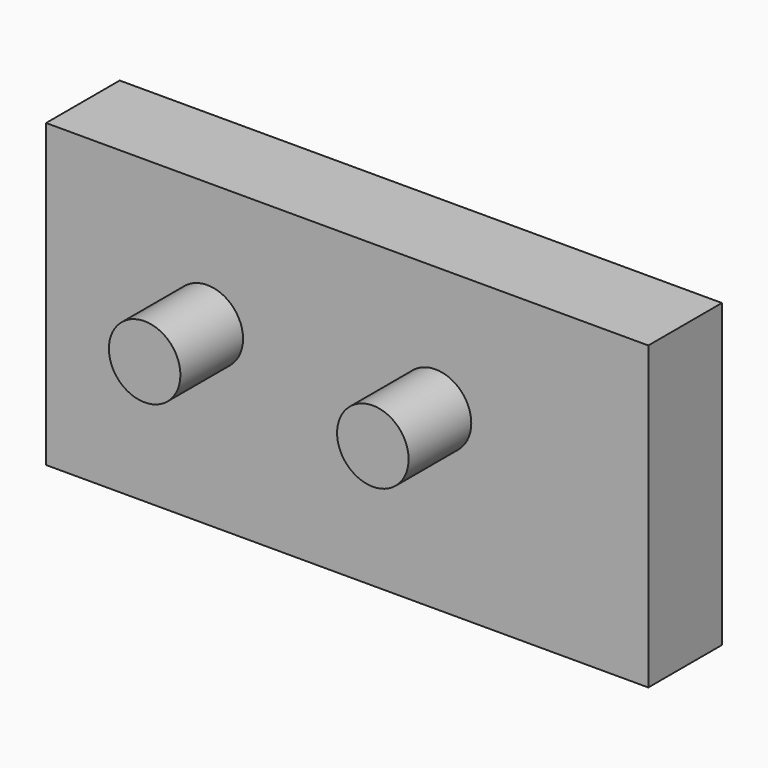
from build123d import *

# Parameters (mm, degrees)
F0_W     = 89.816496
F0_H     = 44.908248
F0_R     = 5.334
F1_DEPTH = 13.72113
F2_DEPTH = 25.4


with BuildPart() as f1:
    # F0 (on Front) → F1 (new body)
    with BuildSketch(Plane.XZ):
        with Locations((3.849279, -3.66598)):
            Rectangle(F0_W, F0_H)
        with Locations((-17.018, 0)):
            Circle(F0_R, mode=Mode.SUBTRACT)
        with Locations((17.018, 0)):
            Circle(F0_R, mode=Mode.SUBTRACT)
        with Locations((-17.018, 0)):
            Circle(F0_R)
        with Locations((17.018, 0)):
            Circle(F0_R)
    extrude(amount=F1_DEPTH)

    # F0 (on Front) → F2 (join)
    with BuildSketch(Plane.XZ):
        with Locations((17.018, 0)):
            Circle(F0_R)
        with Locations((-17.018, 0)):
            Circle(F0_R)
    extrude(amount=F2_DEPTH)


solid = f1.part
